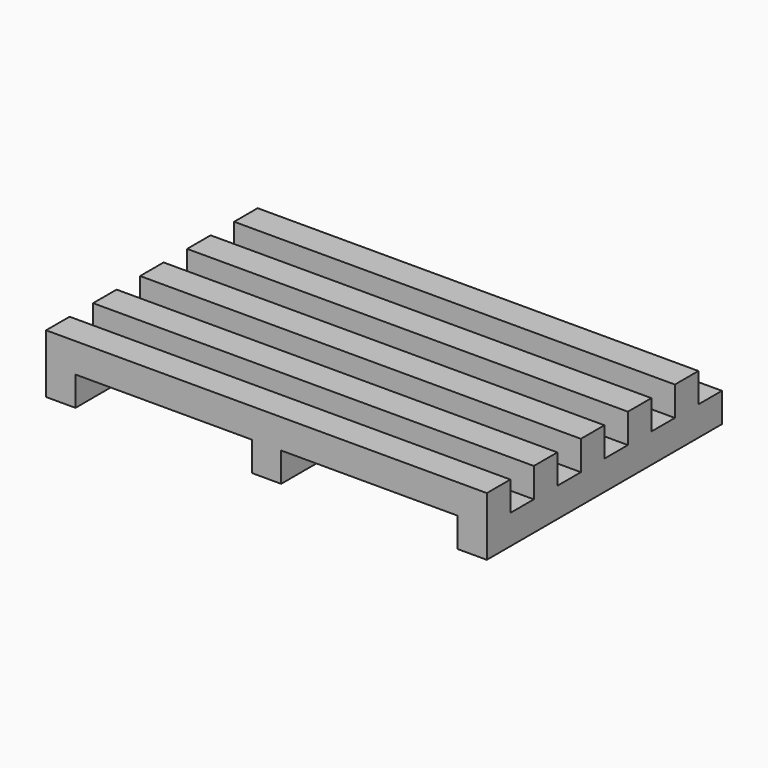
from build123d import *

# Parameters (mm, degrees)
F0_W     = 15
F0_H     = 10
F1_DEPTH = 2
F2_W     = 6
F2_H     = 1
F3_DEPTH = 25
F5_DEPTH = 25


with BuildPart() as f1:
    # F0 (on Top) → F1 (new body)
    with BuildSketch(Plane.XY):
        with Locations((7.5, -5)):
            Rectangle(F0_W, F0_H)
    extrude(amount=F1_DEPTH)

    # F2 (on Front) → F3 (cut)
    with BuildSketch(Plane.XZ):
        with Locations((4, 0.5)):
            Rectangle(F2_W, F2_H)
        with Locations((11, 0.5)):
            Rectangle(F2_W, F2_H)
    extrude(amount=F3_DEPTH, mode=Mode.SUBTRACT)

    # F4 (on face) → F5 (cut)
    with BuildSketch(Plane(origin=(0, 0, 0), x_dir=(0, -1, 0), z_dir=(-1, 0, 0))):
        Polygon((0, 3.5), (0, 2.235531), (0, 1), (1, 1), (1, 2), (2, 2), (2, 1), (3, 1), (3, 2), (4, 2), (4, 1), (5, 1), (5, 2), (6, 2), (6, 1), (7, 1), (7, 2), (8, 2), (8, 1), (9, 1), (9, 2), (10, 2), (10, 1), (10.680856, 1), (10.680856, 3.5), align=None)
    extrude(amount=-F5_DEPTH, mode=Mode.SUBTRACT)


solid = f1.part
